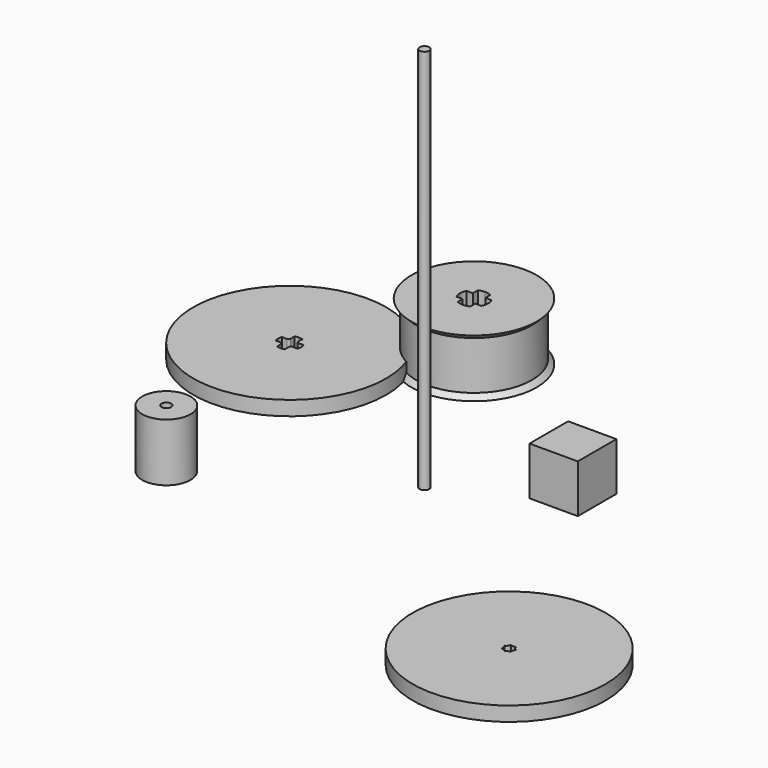
from build123d import *

# Parameters (mm, degrees)
F0_R      = 20
F1_DEPTH  = 3
F2_R      = 1
F3_DEPTH  = 80
F4_W      = 186.607055
F4_H      = 291.874319
F5_DEPTH  = 308
F6_T      = -2.5
F7_R      = 5
F7_R_2    = 1
F8_DEPTH  = 12
F13_DEPTH = 80.001
F14_R     = 20
F15_DEPTH = 3
F16_W     = 10
F16_H     = 10
F17_DEPTH = 10


with BuildPart() as f1:
    # F0 (on Top) → F1 (new body)
    with BuildSketch(Plane.XY):
        with Locations((18.306399, -78.756906)):
            Circle(F0_R)
        with BuildLine():
            ThreePointArc((17.074124, -78.475647), (17.544113, -78.149004), (17.757985, -77.618113))
            ThreePointArc((17.757985, -77.618113), (18.306399, -77.781906), (18.854813, -77.618113))
            ThreePointArc((18.854813, -77.618113), (19.068684, -78.149004), (19.538673, -78.475647))
            ThreePointArc((19.538673, -78.475647), (19.256953, -78.973864), (19.294606, -79.544975))
            ThreePointArc((19.294606, -79.544975), (18.729435, -79.635351), (18.306399, -80.020871))
            ThreePointArc((18.306399, -80.020871), (17.883362, -79.635351), (17.318191, -79.544975))
            ThreePointArc((17.318191, -79.544975), (17.355844, -78.973864), (17.074124, -78.475647))
        make_face(mode=Mode.SUBTRACT)
    extrude(amount=F1_DEPTH)


with BuildPart() as f3:
    # F2 (on Top) → F3 (new body)
    with BuildSketch(Plane.XY):
        with Locations((-31.274304, -38.736261)):
            Circle(F2_R)
    extrude(amount=F3_DEPTH)


with BuildPart() as f5:
    # F4 (on Top) → F5 (new body)
    with BuildSketch(Plane.XY):
        with Locations((207.804951, 1.009569)):
            Rectangle(F4_W, F4_H)
    extrude(amount=F5_DEPTH)

    # F6
    f6_openings = [f5.faces().sort_by_distance(p)[0] for p in [
        (207.804952, 1.009569, 308),
        (207.804952, 1.009569, 0),
    ]]
    offset(amount=F6_T, openings=f6_openings)


with BuildPart() as f8:
    # F7 (on Top) → F8 (new body)
    with BuildSketch(Plane.XY):
        with Locations((-67.446426, -60.373787)):
            Circle(F7_R)
        with Locations((-67.446426, -60.373787)):
            Circle(F7_R_2, mode=Mode.SUBTRACT)
    extrude(amount=F8_DEPTH)


with BuildPart() as f11:
    # F10 (on Front) → F11 (revolve)
    with BuildSketch(Plane.XZ):
        Polygon((-38.979099, 0), (-39.979099, 1), (-39.979099, 11), (-38.979099, 12), (-50.979099, 12), (-50.979099, 0), align=None)
    revolve(axis=Axis((-51.979099, 0, 6), (0, 0, -1)))

    # F12 (on face) → F13 (cut, through all)
    with BuildSketch(Plane(origin=(0, 0, 0), x_dir=(1, 0, 0), z_dir=(0, 0, -1))):
        with BuildLine():
            Line((-50.679099, 1.3), (-50.679099, 2.592296))
            ThreePointArc((-50.679099, 2.592296), (-51.311139, 2.822026), (-51.979099, 2.9))
            ThreePointArc((-51.979099, 2.9), (-52.647059, 2.822026), (-53.279099, 2.592296))
            Line((-53.279099, 2.592296), (-53.279099, 1.3))
            Line((-53.279099, 1.3), (-54.571395, 1.3))
            ThreePointArc((-54.571395, 1.3), (-54.801125, 0.66796), (-54.879099, 0))
            ThreePointArc((-54.879099, 0), (-54.801125, -0.66796), (-54.571395, -1.3))
            Line((-54.571395, -1.3), (-53.279099, -1.3))
            Line((-53.279099, -1.3), (-53.279099, -2.592296))
            ThreePointArc((-53.279099, -2.592296), (-52.647059, -2.822026), (-51.979099, -2.9))
            ThreePointArc((-51.979099, -2.9), (-51.311139, -2.822026), (-50.679099, -2.592296))
            Line((-50.679099, -2.592296), (-50.679099, -1.3))
            Line((-50.679099, -1.3), (-49.386803, -1.3))
            ThreePointArc((-49.386803, -1.3), (-49.157073, -0.66796), (-49.079099, 0))
            ThreePointArc((-49.079099, 0), (-49.157073, 0.66796), (-49.386803, 1.3))
            Line((-49.386803, 1.3), (-50.679099, 1.3))
        make_face()
    extrude(amount=-F13_DEPTH, mode=Mode.SUBTRACT)


with BuildPart() as f15:
    # F14 (on Top) → F15 (new body)
    with BuildSketch(Plane.XY):
        with Locations((-76.342328, -17.299272)):
            Circle(F14_R)
        with BuildLine():
            ThreePointArc((-78.742328, -17.299272), (-78.707765, -16.893427), (-78.60507, -16.499272))
            Line((-78.60507, -16.499272), (-77.542328, -16.499272))
            ThreePointArc((-77.542328, -16.499272), (-77.259486, -16.382114), (-77.142328, -16.099272))
            Line((-77.142328, -16.099272), (-77.142328, -15.03653))
            ThreePointArc((-77.142328, -15.03653), (-76.748173, -14.933835), (-76.342328, -14.899272))
            ThreePointArc((-76.342328, -14.899272), (-75.936484, -14.933835), (-75.542328, -15.03653))
            Line((-75.542328, -15.03653), (-75.542328, -16.099272))
            ThreePointArc((-75.542328, -16.099272), (-75.425171, -16.382114), (-75.142328, -16.499272))
            Line((-75.142328, -16.499272), (-74.079587, -16.499272))
            ThreePointArc((-74.079587, -16.499272), (-73.976892, -16.893427), (-73.942328, -17.299272))
            ThreePointArc((-73.942328, -17.299272), (-73.976892, -17.705116), (-74.079587, -18.099272))
            Line((-74.079587, -18.099272), (-75.142328, -18.099272))
            ThreePointArc((-75.142328, -18.099272), (-75.425171, -18.216429), (-75.542328, -18.499272))
            Line((-75.542328, -18.499272), (-75.542328, -19.562013))
            ThreePointArc((-75.542328, -19.562013), (-75.936484, -19.664708), (-76.342328, -19.699272))
            ThreePointArc((-76.342328, -19.699272), (-76.748173, -19.664708), (-77.142328, -19.562013))
            Line((-77.142328, -19.562013), (-77.142328, -18.499272))
            ThreePointArc((-77.142328, -18.499272), (-77.259486, -18.216429), (-77.542328, -18.099272))
            Line((-77.542328, -18.099272), (-78.60507, -18.099272))
            ThreePointArc((-78.60507, -18.099272), (-78.707765, -17.705116), (-78.742328, -17.299272))
        make_face(mode=Mode.SUBTRACT)
    extrude(amount=F15_DEPTH)


with BuildPart() as f17:
    # F16 (on Top) → F17 (new body)
    with BuildSketch(Plane.XY):
        with Locations((-10.58371, -26.116693)):
            Rectangle(F16_W, F16_H)
    extrude(amount=F17_DEPTH)


solid = Compound([f1.part, f3.part, f8.part, f11.part, f15.part, f17.part])
